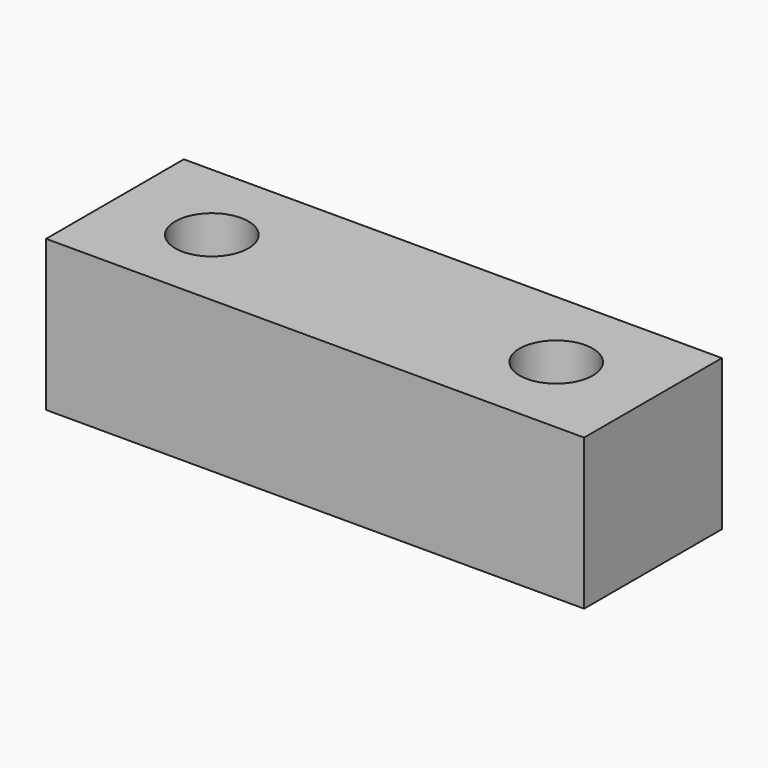
from build123d import *

# Parameters (mm, degrees)
F0_W     = 25
F0_H     = 8
F1_DEPTH = 7
F3_D     = 3.4


with BuildPart() as f1:
    # F0 (on Top) → F1 (new body)
    with BuildSketch(Plane.XY):
        with Locations((16.368949, -7.340726)):
            Rectangle(F0_W, F0_H)
    extrude(amount=F1_DEPTH)

    # F3 (through all)
    with Locations(Plane.XY.offset(7)):
        with Locations((8.368949, -7.340726), (24.368949, -7.340726)):
            Hole(F3_D / 2)


solid = f1.part
